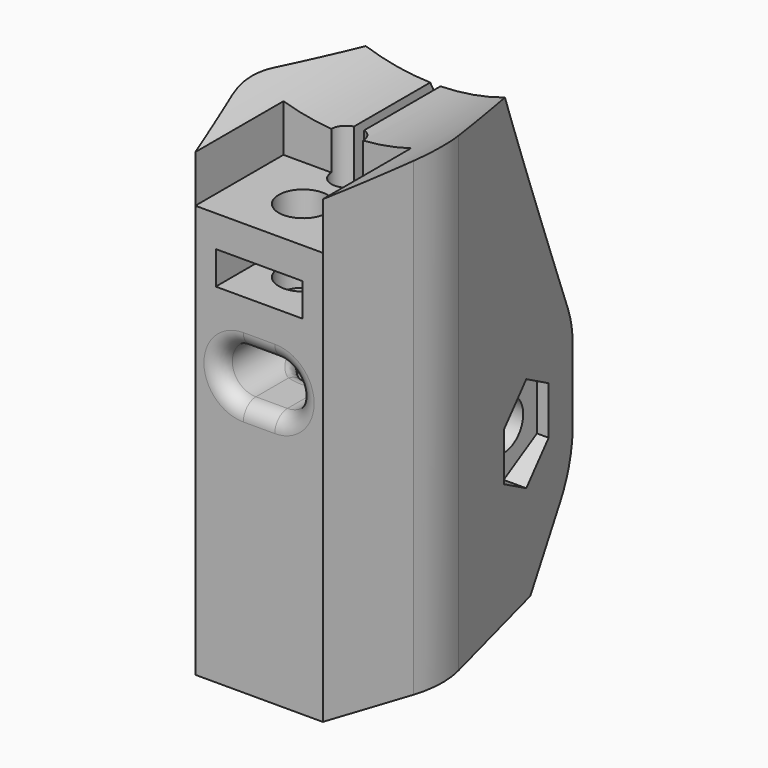
from build123d import *

# Parameters (mm, degrees)
EXTRUDE003_DEPTH     = 10
SKETCH009_R          = 3.05
EXTRUDE002_DEPTH     = 10
EXTRUDE001_DEPTH     = 2.1
EXTRUDE_DEPTH        = 30
POCKET_DEPTH         = 22.001
POCKET001_DEPTH      = 7
SKETCH003_R          = 1.55
POCKET002_DEPTH      = 5.5
SKETCH005_R          = 4.05
POCKET003_DEPTH      = 15
SKETCH006_R          = 2.55
POCKET004_DEPTH      = 5
POCKET005_DEPTH      = 7
FILLET_R             = 1
CHAMFER_1_SIZE2      = 8
CHAMFER_1_SIZE       = 16
CHAMFER_2_SIZE2      = 8
CHAMFER_2_SIZE       = 16
CHAMFER001_SIZE      = 5
FILLET001_R          = 5
SKETCH008_R          = 1.55
POCKET006_DEPTH      = 5.726
POCKET006_DEPTH_BACK = 6.376


with BuildPart() as extrude003:
    # Sketch010 → Extrude003 (new body)
    with BuildSketch(Plane(origin=(0.325, 0, 0), x_dir=(0, -1, 0), z_dir=(-1, 0, 0))):
        Polygon((-9.518469, 12.359259), (-12.159847, 10.834259), (-12.159847, 7.784259), (-9.518469, 6.259259), (-6.877092, 7.784259), (-6.877092, 10.834259), align=None)
    extrude(amount=-EXTRUDE003_DEPTH)


with BuildPart() as extrude003_1:
    # Extrude003 placement: moved
    add(extrude003.part.moved(Location((2, 0, 0))))


with BuildPart() as extrude002:
    # Sketch009 → Extrude002 (new body)
    with BuildSketch(Plane.YZ.offset(-0.325)):
        with Locations((9.518469, 9.309259)):
            Circle(SKETCH009_R)
    extrude(amount=-EXTRUDE002_DEPTH)


with BuildPart() as extrude002_1:
    # Extrude002 placement: moved
    add(extrude002.part.moved(Location((-2, 0, 0))))


with BuildPart() as extrude001:
    # Sketch004 → Extrude001 (new body)
    with BuildSketch(Plane.XY.offset(26.23338)):
        Polygon((-2.75, -7), (-2.75, -1.912287), (0, -0.324574), (2.75, -1.912287), (2.75, -7), align=None)
    extrude(amount=-EXTRUDE001_DEPTH)


with BuildPart() as extrude001_1:
    # Extrude001 placement: moved
    add(extrude001.part.moved(Location((0, 0, -2))))


with BuildPart() as cut002:
    # Sketch → Extrude (new body)
    with BuildSketch(Plane.XY):
        with BuildLine():
            ThreePointArc((-5.852556, 1.533), (-6.046854, -0.195073), (-5.741579, -1.907031))
            Line((-5.741579, -1.907031), (-4.05, -7))
            Line((-4.05, -7), (4.05, -7))
            Line((4.05, -7), (5.741579, -1.907031))
            ThreePointArc((5.741579, -1.907031), (6.046854, -0.195073), (5.852556, 1.533))
            Line((2.325, 15), (5.852556, 1.533))
            Line((0.325, 15), (2.325, 15))
            Line((0.325, 0.945714), (0.325, 15))
            ThreePointArc((-0.325, 0.945714), (0, -1), (0.325, 0.945714))
            Line((-0.325, 15), (-0.325, 0.945714))
            Line((-2.325, 15), (-0.325, 15))
            Line((-5.852556, 1.533), (-2.325, 15))
        make_face()
    extrude(amount=EXTRUDE_DEPTH)

    # Sketch001 → Pocket (cut, through all)
    with BuildSketch(Plane.XZ.offset(7)):
        with BuildLine():
            Line((-6.05, 30), (0, 30))
            Line((0, 30), (6.05, 30))
            ThreePointArc((-6.05, 30), (0, 28.641403), (6.05, 30))
        make_face()
    extrude(amount=-POCKET_DEPTH, mode=Mode.SUBTRACT)

    # Sketch002 → Pocket001 (cut)
    with BuildSketch(Plane.XZ.offset(7)):
        with BuildLine():
            Line((-4.05, 29.23338), (-4.05, 26.23338))
            Line((-4.05, 26.23338), (4.05, 26.23338))
            Line((4.05, 26.23338), (4.05, 29.23338))
            ThreePointArc((-4.05, 29.23338), (0, 28.641403), (4.05, 29.23338))
        make_face()
    extrude(amount=-POCKET001_DEPTH, mode=Mode.SUBTRACT)

    # Sketch003 → Pocket002 (cut)
    with BuildSketch(Plane.XY.offset(26.23338)):
        with Locations((0, -3.5)):
            Circle(SKETCH003_R)
    extrude(amount=-POCKET002_DEPTH, mode=Mode.SUBTRACT)

    # Cut: cut Extrude001
    add(extrude001_1.part, mode=Mode.SUBTRACT)

    # Sketch005 → Pocket003 (cut)
    with BuildSketch(Plane(origin=(0, 0, 0), x_dir=(1, 0, 0), z_dir=(0, 0, -1))):
        Circle(SKETCH005_R)
    extrude(amount=-POCKET003_DEPTH, mode=Mode.SUBTRACT)

    # Sketch006 → Pocket004 (cut)
    with BuildSketch(Plane(origin=(0, 0, 15), x_dir=(1, 0, 0), z_dir=(0, 0, -1))):
        Circle(SKETCH006_R)
    extrude(amount=-POCKET004_DEPTH, mode=Mode.SUBTRACT)

    # Sketch007 → Pocket005 (cut)
    with BuildSketch(Plane.XZ.offset(7)):
        with BuildLine():
            Line((-1, 19.13338), (1, 19.13338))
            ThreePointArc((1, 16.13338), (2.5, 17.63338), (1, 19.13338))
            Line((1, 16.13338), (-1, 16.13338))
            ThreePointArc((-1, 19.13338), (-2.5, 17.63338), (-1, 16.13338))
        make_face()
    extrude(amount=-POCKET005_DEPTH, mode=Mode.SUBTRACT)

    # Fillet
    fillet_edges = [cut002.edges().sort_by_distance(p)[0] for p in [
        (0, -7, 19.13338),
        (2.5, -7, 17.63338),
        (0, -7, 16.13338),
        (-2.5, -7, 17.63338),
        (-2.5, -0.502494, 17.63338),
        (0, -2.55, 16.13338),
        (2.088586, -1.462979, 16.601401),
        (2.088586, -1.462979, 18.665359),
        (0, -2.55, 19.13338),
    ]]
    fillet(fillet_edges, radius=FILLET_R)

    # Chamfer 1
    chamfer_1_edges = [cut002.edges().sort_by_distance(p)[0] for p in [
        (1.328351, 15, 28.703892),
    ]]
    chamfer_1_side = cut002.faces().sort_by_distance((1.326093, 15, 14.357814))[0]
    chamfer(chamfer_1_edges, length=CHAMFER_1_SIZE, length2=CHAMFER_1_SIZE2, reference=chamfer_1_side)

    # Chamfer 2
    chamfer_2_edges = [cut002.edges().sort_by_distance(p)[0] for p in [
        (-1.328351, 15, 28.703892),
    ]]
    chamfer_2_side = cut002.faces().sort_by_distance((-1.326093, 15, 14.357814))[0]
    chamfer(chamfer_2_edges, length=CHAMFER_2_SIZE, length2=CHAMFER_2_SIZE2, reference=chamfer_2_side)

    # Chamfer001
    chamfer001_edges = [cut002.edges().sort_by_distance(p)[0] for p in [
        (-1.325, 15, 0),
        (1.325, 15, 0),
    ]]
    chamfer(chamfer001_edges, length=CHAMFER001_SIZE)

    # Fillet001
    fillet001_edges = [cut002.edges().sort_by_distance(p)[0] for p in [
        (-1.325, 15, 5),
        (-1.325731, 15, 12.670564),
        (1.325, 15, 5),
        (1.325731, 15, 12.670564),
    ]]
    fillet(fillet001_edges, radius=FILLET001_R)

    # Sketch008 → Pocket006 (cut, two sides)
    with BuildSketch(Plane.YZ.offset(-0.325)) as pocket006_sk:
        with Locations((9.518469, 9.309259)):
            Circle(SKETCH008_R)
    extrude(amount=-POCKET006_DEPTH, mode=Mode.SUBTRACT)
    extrude(pocket006_sk.sketch, amount=POCKET006_DEPTH_BACK, mode=Mode.SUBTRACT)

    # Cut001: cut Extrude002
    add(extrude002_1.part, mode=Mode.SUBTRACT)

    # Cut002: cut Extrude003
    add(extrude003_1.part, mode=Mode.SUBTRACT)


solid = cut002.part
